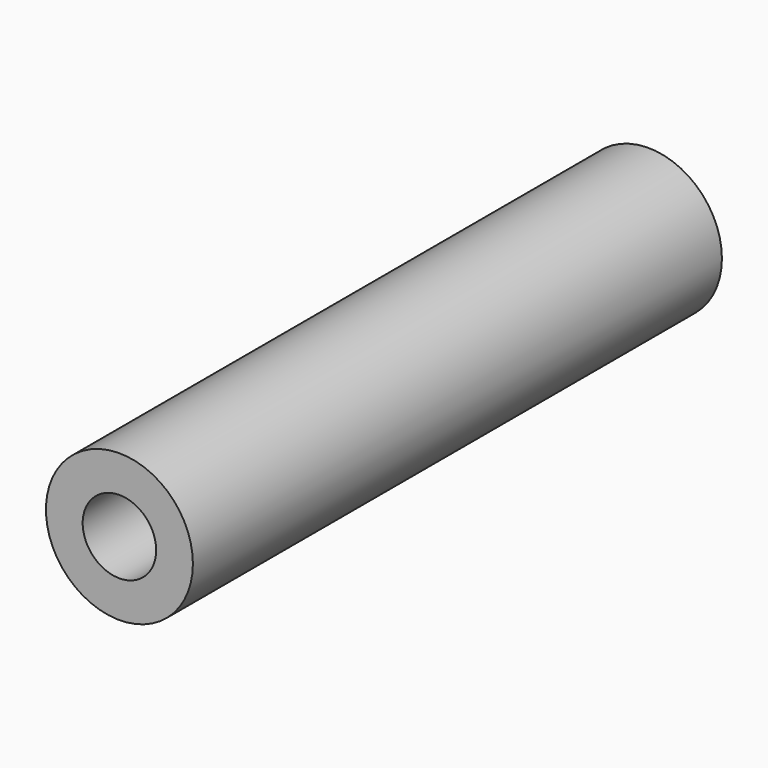
from build123d import *

# Parameters (mm, degrees)
CYLINDER020_R          = 1
CYLINDER020_DEPTH      = 18
CYLINDER020_ROLL_ANGLE = 90
CYLINDER018_R          = 2
CYLINDER018_DEPTH      = 18
CYLINDER018_ROLL_ANGLE = 90


with BuildPart() as cylinder020:
    # Cylinder020 → Cylinder020 (new body)
    with BuildSketch(Plane.XY):
        Circle(CYLINDER020_R)
    extrude(amount=CYLINDER020_DEPTH)


with BuildPart() as cylinder020_1:
    # Cylinder020 roll: moved
    add(cylinder020.part.rotate(Axis((0, 0, 0), (1, 0, 0)), CYLINDER020_ROLL_ANGLE))


with BuildPart() as cylinder020_2:
    # Cylinder020 placement: moved
    add(cylinder020_1.part.moved(Location((12, -7, 0))))


with BuildPart() as cut005:
    # Cylinder018 → Cylinder018 (new body)
    with BuildSketch(Plane.XY):
        Circle(CYLINDER018_R)
    extrude(amount=CYLINDER018_DEPTH)


with BuildPart() as cut005_1:
    # Cylinder018 roll: moved
    add(cut005.part.rotate(Axis((0, 0, 0), (1, 0, 0)), CYLINDER018_ROLL_ANGLE))


with BuildPart() as cut005_2:
    # Cylinder018 placement: moved
    add(cut005_1.part.moved(Location((12, -7, 0))))

    # Cut005: cut Cylinder020
    add(cylinder020_2.part, mode=Mode.SUBTRACT)


with BuildPart() as cut005_3:
    # Cut005 placement: moved
    add(cut005_2.part.moved(Location((-1, 0, 0))))


solid = cut005_3.part
